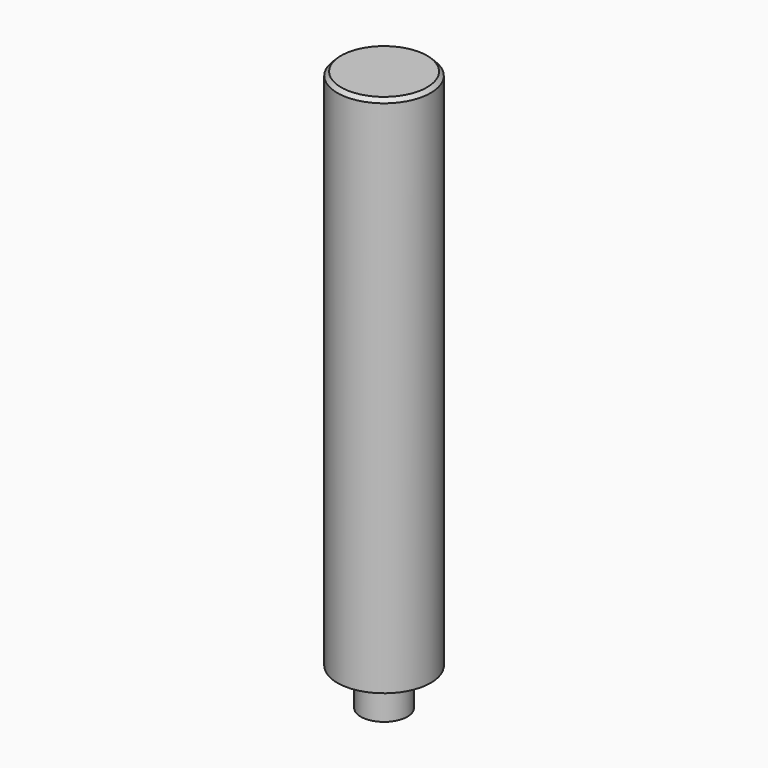
from build123d import *

# Parameters (mm, degrees)
F2_SIZE = 0.508


with BuildPart() as f1:
    # F0 (on Front) → F1 (revolve)
    with BuildSketch(Plane.XZ):
        Polygon((0, 76.2), (0, 0), (3.175, 0), (3.175, 5.08), (6.35, 5.08), (6.35, 76.2), align=None)
    revolve(axis=Axis((0, 0, 38.1), (0, 0, 1)))

    # F2
    f2_edges = [f1.edges().sort_by_distance(p)[0] for p in [
        (-6.35, 0, 76.2),
    ]]
    chamfer(f2_edges, length=F2_SIZE)


solid = f1.part
